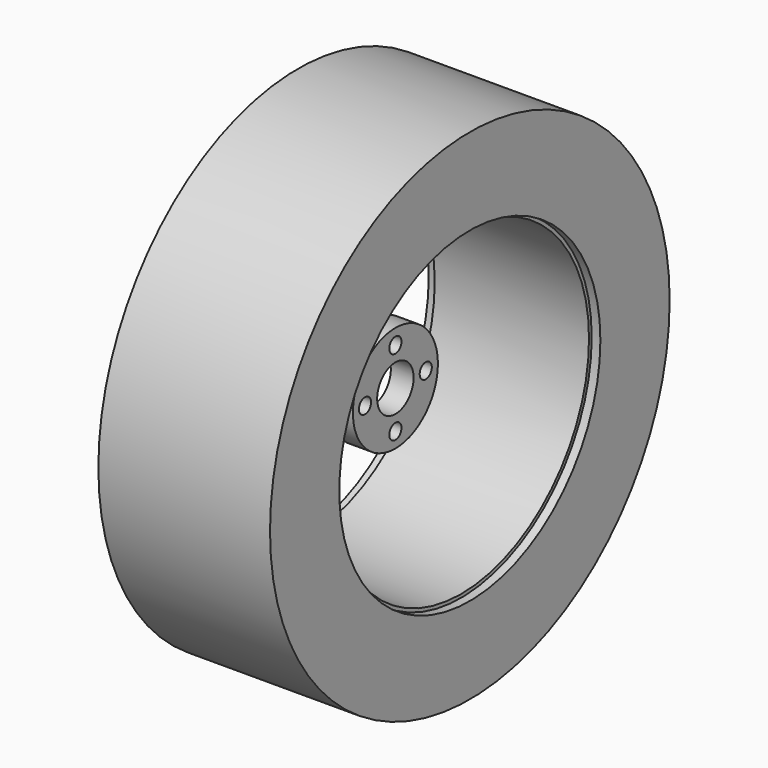
from build123d import *

# Parameters (mm, degrees)
F0_R     = 215.5
F0_R_2   = 210.5
F1_DEPTH = 101.6
F2_R     = 70
F2_R_2   = 10
F2_R_3   = 30
F3_DEPTH = 15
F4_R     = 328.93
F4_R_2   = 214.93
F5_DEPTH = 113.03


with BuildPart() as f1:
    # F0 (on Right) → F1 (new body, symmetric)
    with BuildSketch(Plane.YZ):
        Circle(F0_R)
        Circle(F0_R_2, mode=Mode.SUBTRACT)
    extrude(amount=F1_DEPTH, both=True)

    # F4 (on Right) → F5 (join, symmetric)
    with BuildSketch(Plane.YZ):
        Circle(F4_R)
        Circle(F4_R_2, mode=Mode.SUBTRACT)
    extrude(amount=F5_DEPTH, both=True)


with BuildPart() as f3:
    # F2 (on Right) → F3 (new body, symmetric)
    with BuildSketch(Plane.YZ):
        Circle(F2_R)
        with Locations((0, -50)):
            Circle(F2_R_2, mode=Mode.SUBTRACT)
        with Locations((-50, 0)):
            Circle(F2_R_2, mode=Mode.SUBTRACT)
        Circle(F2_R_3, mode=Mode.SUBTRACT)
        with Locations((50, 0)):
            Circle(F2_R_2, mode=Mode.SUBTRACT)
        with Locations((0, 50)):
            Circle(F2_R_2, mode=Mode.SUBTRACT)
    extrude(amount=F3_DEPTH, both=True)


solid = Compound([f1.part, f3.part])
